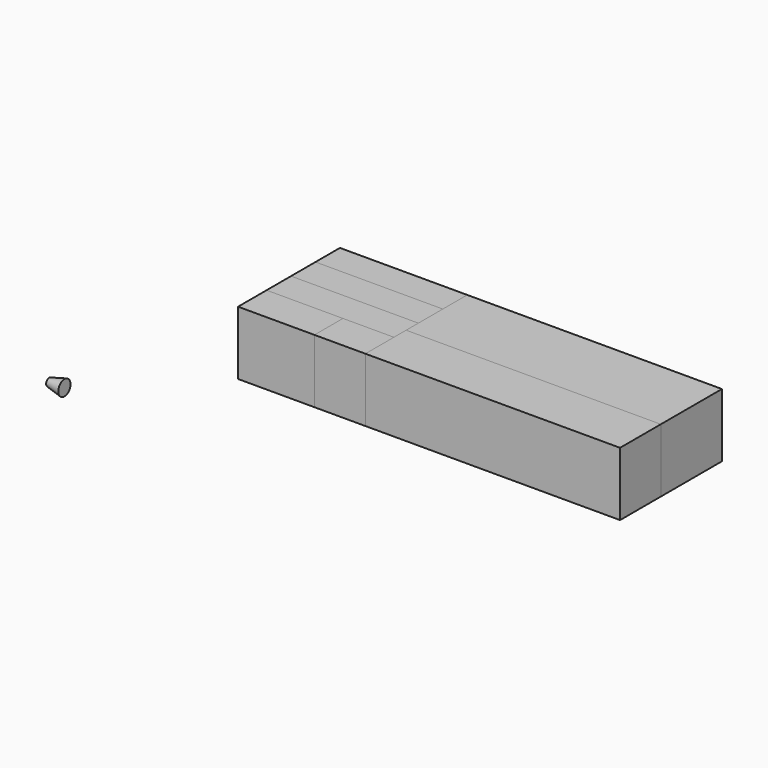
from build123d import *

# Parameters (mm, degrees)
F0_W     = 50
F0_H     = 12
F1_DEPTH = 25
F0_W_2   = 30
F0_H_2   = 14
F2_DEPTH = 25
F0_W_3   = 20
F3_DEPTH = 25


with BuildPart() as f1:
    # F0 (on Top) → F1 (new body)
    with BuildSketch(Plane.XY):
        with Locations((25, 44)):
            Rectangle(F0_W, F0_H)
        Polygon((0, 26), (0, 14), (30, 14), (50, 14), (50, 20), (50, 26), align=None)
    extrude(amount=F1_DEPTH)


with BuildPart() as f2:
    # F0 (on Top) → F2 (new body)
    with BuildSketch(Plane.XY):
        with Locations((25, 32)):
            Rectangle(F0_W, F0_H)
        with Locations((15, 7)):
            Rectangle(F0_W_2, F0_H_2)
        Polygon((50, 14), (50, 0), (150, 0), (150, 20), (50, 20), align=None)
    extrude(amount=F2_DEPTH)


with BuildPart() as f3:
    # F0 (on Top) → F3 (new body)
    with BuildSketch(Plane.XY):
        Polygon((50, 38), (50, 26), (50, 20), (150, 20), (150, 50), (50, 50), align=None)
        with Locations((40, 7)):
            Rectangle(F0_W_3, F0_H_2)
    extrude(amount=F3_DEPTH)


with BuildPart() as f5:
    # F4 (on Top) → F5 (revolve)
    with BuildSketch(Plane.XY):
        Polygon((-37.936111, -37.807407), (-37.936111, -34.807407), (-43.936111, -36.307407), (-43.936111, -37.807407), align=None)
    revolve(axis=Axis((-40.936111, -37.807407, 0), (-1, 0, 0)))


solid = Compound([f1.part, f2.part, f3.part, f5.part])
